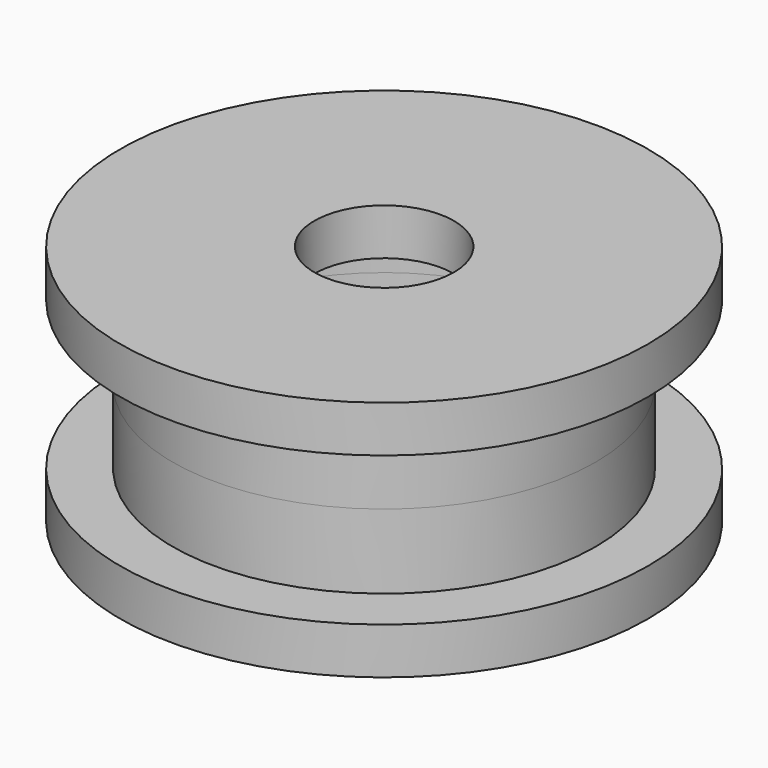
from build123d import *

# Parameters (mm, degrees)
F0_R     = 11.35
F0_R_2   = 9.1
F0_R_3   = 8.1
F0_R_4   = 3
F1_DEPTH = 2
F2_DEPTH = 3.2


with BuildPart() as f1:
    # F0 (on Top) → F1 (new body)
    with BuildSketch(Plane.XY):
        Circle(F0_R)
        Circle(F0_R_2, mode=Mode.SUBTRACT)
        Circle(F0_R_2)
        Circle(F0_R_3, mode=Mode.SUBTRACT)
        Circle(F0_R_3)
        Circle(F0_R_4, mode=Mode.SUBTRACT)
    extrude(amount=-F1_DEPTH)

    # F0 (on Top) → F2 (join)
    with BuildSketch(Plane.XY):
        Circle(F0_R_2)
        Circle(F0_R_3, mode=Mode.SUBTRACT)
    extrude(amount=F2_DEPTH)


with BuildPart() as f3_1:
    # F3: instance of F1
    add(f1.part.mirror(Plane.XY.offset(3.2)))


solid = Compound([f1.part, f3_1.part])
